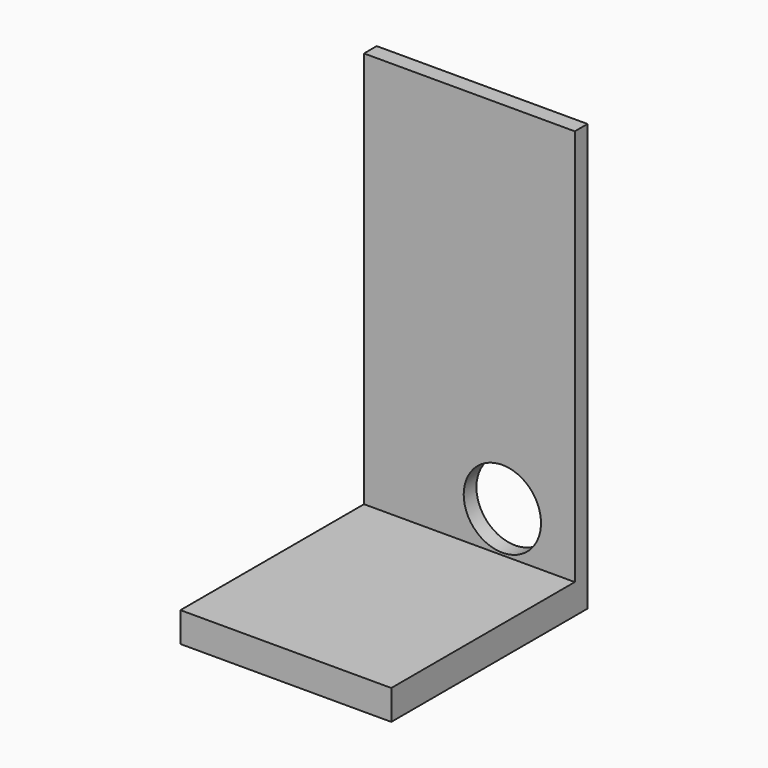
from build123d import *

# Parameters (mm, degrees)
F1_W     = 49.40505
F1_H     = 3.729451
F2_DEPTH = 100
F0_W     = 49.40505
F0_H     = 57.492822
F3_DEPTH = 7
F4_R     = 9.059314
F5_DEPTH = 25


with BuildPart() as f2:
    # F1 (on face) → F2 (new body)
    with BuildSketch(Plane.XY):
        with Locations((24.702525, 55.628096)):
            Rectangle(F1_W, F1_H)
    extrude(amount=F2_DEPTH)

    # F0 (on Top) → F3 (join)
    with BuildSketch(Plane.XY):
        with Locations((24.702525, 28.746411)):
            Rectangle(F0_W, F0_H)
    extrude(amount=F3_DEPTH)

    # F4 (on face) → F5 (cut)
    with BuildSketch(Plane(origin=(0, 57.492822, 0), x_dir=(-1, 0, 0), z_dir=(0, 1, 0))):
        with Locations((-32.426473, 16.59425)):
            Circle(F4_R)
    extrude(amount=-F5_DEPTH, mode=Mode.SUBTRACT)


solid = f2.part
